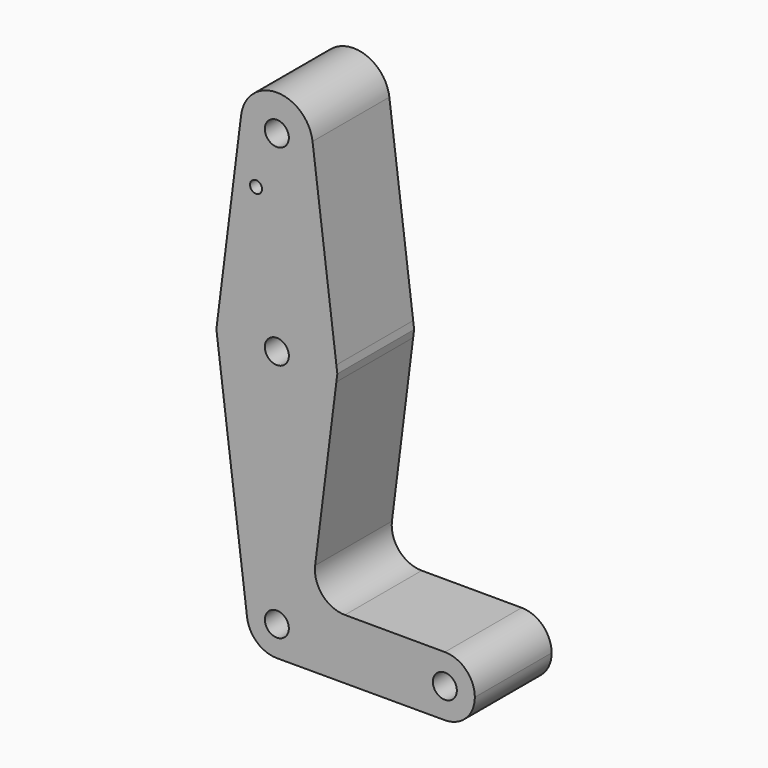
from build123d import *

# Parameters (mm, degrees)
F0_R     = 3.175
F1_DEPTH = 3.048
F0_R_2   = 1.5875
F2_DEPTH = 25.4


with BuildPart() as f1:
    # F0 (on Front) → F1 (new body)
    with BuildSketch(Plane.XZ):
        with BuildLine():
            ThreePointArc((-9.4502929642, 51.990625), (-0.596483242, 41.2936951058), (9.525, 50.8))
            ThreePointArc((9.525, 50.8), (9.5063048942, 51.396483242), (9.4502929642, 51.990625))
            ThreePointArc((9.4502929642, 51.990625), (0, 60.325), (-9.4502929642, 51.990625))
        make_face()
        with Locations((0, 50.8)):
            Circle(F0_R, mode=Mode.SUBTRACT)
    extrude(amount=F1_DEPTH)

    # F0 (on Front) → F2 (join)
    with BuildSketch(Plane.XZ):
        with BuildLine():
            ThreePointArc((-9.4502929642, 51.990625), (-0.596483242, 41.2936951058), (9.525, 50.8))
            ThreePointArc((9.525, 50.8), (9.5063048942, 51.396483242), (9.4502929642, 51.990625))
            ThreePointArc((9.4502929642, 51.990625), (0, 60.325), (-9.4502929642, 51.990625))
        make_face()
        with Locations((0, 50.8)):
            Circle(F0_R, mode=Mode.SUBTRACT)
        with BuildLine():
            ThreePointArc((9.4502929642, 51.990625), (9.5063048942, 51.396483242), (9.525, 50.8))
            ThreePointArc((9.525, 50.8), (-0.596483242, 41.2936951058), (-9.4502929642, 51.990625))
            Line((-9.4502929642, 51.990625), (-15.7504882831, 1.9843749253))
            ThreePointArc((-15.7504882831, 1.9843749253), (-5.14e-08, 15.875), (15.7504882702, 1.9843750273))
            Line((15.7504882702, 1.9843750273), (9.4502929642, 51.990625))
        make_face()
        with Locations((-5.5143092759, 36.5252)):
            Circle(F0_R_2, mode=Mode.SUBTRACT)
        with BuildLine():
            Line((16.0004960241, 0), (15.7504882702, 1.9843750273))
            ThreePointArc((15.7504882702, 1.9843750273), (15.8438414895, 0.9941387503), (15.875, 0))
            ThreePointArc((15.875, 0), (15.8438414955, -0.9941386557), (15.750488294, -1.984374839))
            Line((15.750488294, -1.984374839), (16.0004960241, 0))
        make_face()
        with BuildLine():
            ThreePointArc((15.875, 0), (15.8438414895, 0.9941387503), (15.7504882702, 1.9843750273))
            ThreePointArc((15.7504882702, 1.9843750273), (-5.14e-08, 15.875), (-15.7504882831, 1.9843749253))
            ThreePointArc((-15.7504882831, 1.9843749253), (-15.875, -4.91e-08), (-15.7504882708, -1.9843750227))
            ThreePointArc((-15.7504882708, -1.9843750227), (9.26e-08, -15.875), (15.750488294, -1.984374839))
            ThreePointArc((15.750488294, -1.984374839), (15.8438414955, -0.9941386557), (15.875, 0))
        make_face()
        Circle(F0_R, mode=Mode.SUBTRACT)
        with BuildLine():
            ThreePointArc((-15.7504882708, -1.9843750227), (-15.875, -4.91e-08), (-15.7504882831, 1.9843749253))
            Line((-15.7504882831, 1.9843749253), (-16.0004960241, 0))
            Line((-16.0004960241, 0), (-15.7504882708, -1.9843750227))
        make_face()
        with BuildLine():
            ThreePointArc((15.750488294, -1.984374839), (9.26e-08, -15.875), (-15.7504882708, -1.9843750227))
            Line((-15.7504882708, -1.9843750227), (-7.8752441368, -64.4921875))
            ThreePointArc((-7.8752441368, -64.4921875), (-0.4970693683, -55.5780792548), (7.9375, -63.5))
            ThreePointArc((7.9375, -63.5), (5.6126600757, -69.1126600757), (0, -71.4375))
            Line((0, -71.4375), (44.45, -71.4375))
            ThreePointArc((44.45, -71.4375), (36.512503486, -63.4925609158), (44.4648781619, -55.5625139439))
            Line((44.4648781619, -55.5625139439), (18.0063012994, -55.5129195273))
            ThreePointArc((18.0063012994, -55.5129195273), (12.0536275205, -52.8157059624), (10.1333587389, -46.5689584936))
            Line((10.1333587389, -46.5689584936), (15.750488294, -1.984374839))
        make_face()
        with BuildLine():
            ThreePointArc((7.9375, -63.5), (-0.4970693683, -55.5780792548), (-7.8752441368, -64.4921875))
            ThreePointArc((-7.8752441368, -64.4921875), (-5.2501627579, -69.453125), (0, -71.4375))
            ThreePointArc((0, -71.4375), (5.6126600757, -69.1126600757), (7.9375, -63.5))
        make_face()
        with Locations((0, -63.5)):
            Circle(F0_R, mode=Mode.SUBTRACT)
        with BuildLine():
            ThreePointArc((44.4648781619, -55.5625139439), (36.512503486, -63.4925609158), (44.45, -71.4375))
            ThreePointArc((44.45, -71.4375), (50.0626600757, -69.1126600757), (52.3875, -63.5))
            ThreePointArc((52.3875, -63.5), (50.0679178376, -57.8926026162), (44.4648781619, -55.5625139439))
        make_face()
        with Locations((44.45, -63.5)):
            Circle(F0_R, mode=Mode.SUBTRACT)
    extrude(amount=F2_DEPTH)


solid = f1.part
